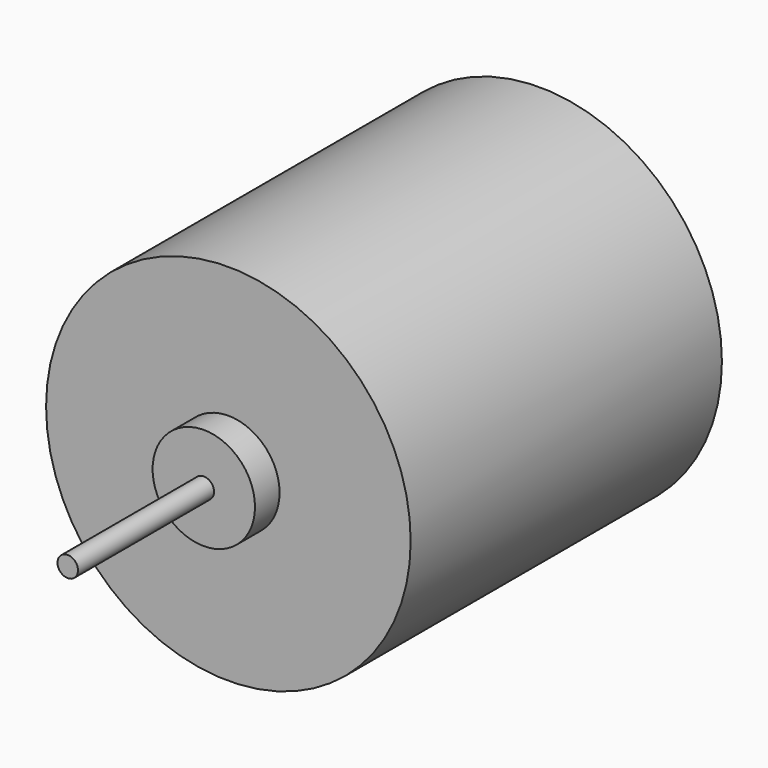
from build123d import *

# Parameters (mm, degrees)
F0_R     = 17.8054
F1_DEPTH = 19
F2_R     = 5
F3_DEPTH = 3
F4_R     = 1
F5_DEPTH = 16.6116


with BuildPart() as f1:
    # F0 (on Front) → F1 (new body, symmetric)
    with BuildSketch(Plane.XZ):
        Circle(F0_R)
    extrude(amount=F1_DEPTH, both=True)

    # F2 (on face) → F3 (join)
    with BuildSketch(Plane.XZ.offset(19)):
        Circle(F2_R)
    extrude(amount=F3_DEPTH)

    # F4 (on face) → F5 (join)
    with BuildSketch(Plane.XZ.offset(22)):
        Circle(F4_R)
    extrude(amount=F5_DEPTH)


solid = f1.part
